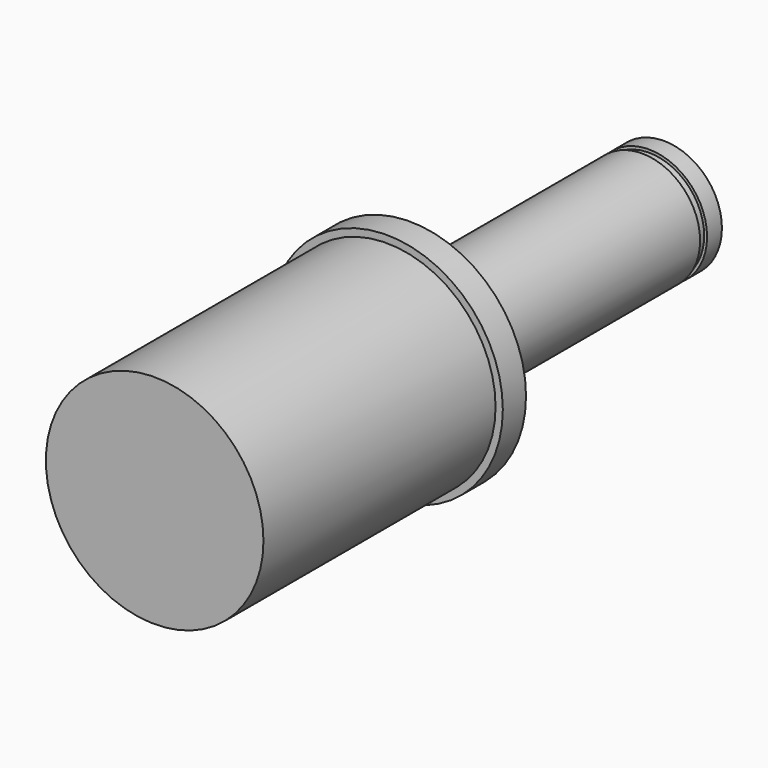
from build123d import *

# Parameters (mm, degrees)
F0_R      = 18.75
F1_DEPTH  = 50
F2_R      = 20
F3_DEPTH  = 5
F5_R      = 10
F6_DEPTH  = 50
F8_R      = 9.5
F9_DEPTH  = 1.5
F11_R     = 10
F12_DEPTH = 3.2


with BuildPart() as f1:
    # F0 (on Front) → F1 (new body)
    with BuildSketch(Plane.XZ):
        Circle(F0_R)
    extrude(amount=F1_DEPTH)

    # F2 (on Front) → F3 (join)
    with BuildSketch(Plane.XZ):
        Circle(F2_R)
    extrude(amount=-F3_DEPTH)

    # F5 (on offset) → F6 (join)
    with BuildSketch(Plane(origin=(0, 5, 0), x_dir=(1, 0, 0), z_dir=(0, 1, 0))):
        Circle(F5_R)
    extrude(amount=F6_DEPTH)

    # F8 (on offset) → F9 (join)
    with BuildSketch(Plane(origin=(0, 55, 0), x_dir=(1, 0, 0), z_dir=(0, 1, 0))):
        Circle(F8_R)
    extrude(amount=F9_DEPTH)

    # F11 (on offset) → F12 (join)
    with BuildSketch(Plane(origin=(0, 56.5, 0), x_dir=(1, 0, 0), z_dir=(0, 1, 0))):
        Circle(F11_R)
    extrude(amount=F12_DEPTH)


solid = f1.part
